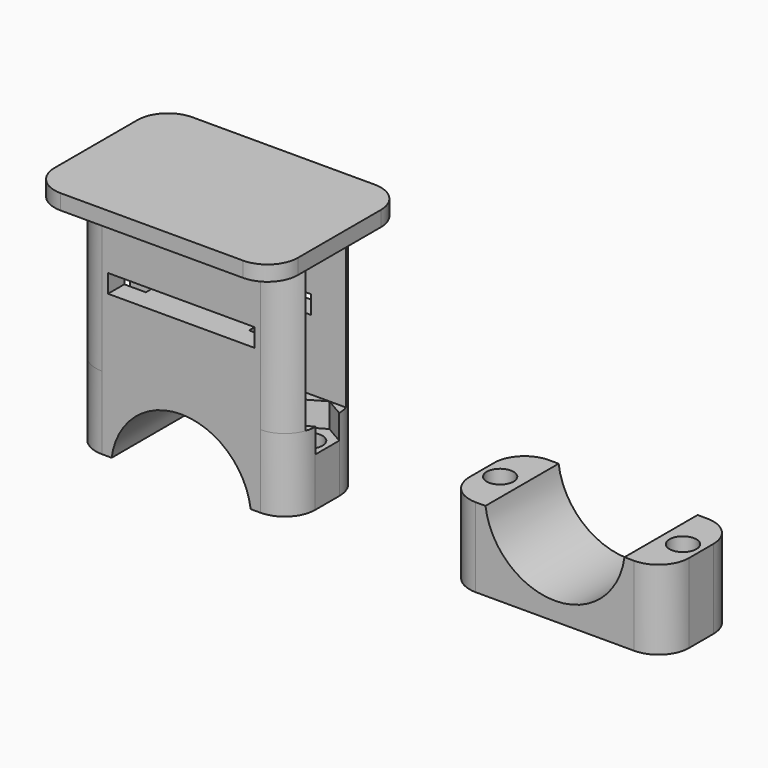
from build123d import *

# Parameters (mm, degrees)
F1_DEPTH  = 15
F2_R      = 5
F3_R      = 2.2
F4_DEPTH  = 25
F5_W      = 16.9340001484
F5_H      = 25
F6_DEPTH  = 15
F7_DEPTH  = 21
F8_DEPTH  = 6
F9_R      = 5
F10_R     = 2.2
F11_R     = 2.2
F12_DEPTH = 25
F13_R     = 2.2
F14_DEPTH = 4
F15_R     = 2.2
F16_DEPTH = 4
F17_DEPTH = 25
F18_R     = 5
F19_W     = 24
F19_H     = 3
F20_DEPTH = 25


with BuildPart() as f1:
    # F0 (on Front) → F1 (new body)
    with BuildSketch(Plane.XZ):
        with BuildLine():
            Line((0, 13), (0, 0))
            Line((0, 0), (36, 0))
            Line((36, 0), (36, 13))
            Line((36, 13), (29.401754251, 13))
            ThreePointArc((29.401754251, 13), (18, 3), (6.598245749, 13))
            Line((6.598245749, 13), (0, 13))
        make_face()
    extrude(amount=F1_DEPTH)

    # F2
    f2_edges = [f1.edges().sort_by_distance(p)[0] for p in [
        (0, -15, 6.5),
        (36, -15, 6.5),
        (36, 0, 6.5),
        (0, 0, 6.5),
    ]]
    fillet(f2_edges, radius=F2_R)

    # F3 (on face) → F4 (cut)
    with BuildSketch(Plane(origin=(0, 0, 0), x_dir=(1, 0, 0), z_dir=(0, 0, -1))):
        with Locations((3, 7.5)):
            Circle(F3_R)
        with Locations((33, 7.5)):
            Circle(F3_R)
    extrude(amount=-F4_DEPTH, mode=Mode.SUBTRACT)


with BuildPart() as f6:
    # F5 (on Front) → F6 (new body)
    with BuildSketch(Plane.XZ):
        with BuildLine():
            Line((-61.3396323552, 12), (-61.3396323552, 0))
            Line((-61.3396323552, 0), (-54.7413866062, 0))
            ThreePointArc((-54.7413866062, 0), (-43.3396323552, 10), (-31.9378781042, 0))
            Line((-31.9378781042, 0), (-25.3396323552, 0))
            Line((-25.3396323552, 0), (-25.3396323552, 12))
            Line((-25.3396323552, 12), (-34.872632281, 12))
            Line((-34.872632281, 12), (-51.8066324294, 12))
            Line((-51.8066324294, 12), (-61.3396323552, 12))
        make_face()
        with Locations((-43.3396323552, 24.5)):
            Rectangle(F5_W, F5_H)
    extrude(amount=F6_DEPTH)

    # F5 (on Front) → F7 (join)
    with BuildSketch(Plane.XZ):
        Polygon((-63.3066324294, 37), (-51.8066324294, 37), (-34.872632281, 37), (-23.372632281, 37), (-23.372632281, 39.5), (-63.3066324294, 39.5), align=None)
    extrude(amount=F7_DEPTH)

    # F5 (on Front) → F8 (join)
    with BuildSketch(Plane.XZ):
        Polygon((-63.3066324294, 37), (-51.8066324294, 37), (-34.872632281, 37), (-23.372632281, 37), (-23.372632281, 39.5), (-63.3066324294, 39.5), align=None)
    extrude(amount=-F8_DEPTH)

    # F9
    f9_edges = [f6.edges().sort_by_distance(p)[0] for p in [
        (-25.339632, -15, 6),
        (-25.339632, 0, 6),
        (-61.339632, -15, 6),
        (-61.339632, 0, 6),
    ]]
    fillet(f9_edges, radius=F9_R)

    # F10 (on face) + F11 (on face) → F12 (cut)
    with BuildSketch(Plane(origin=(0, 0, 0), x_dir=(1, 0, 0), z_dir=(0, 0, -1))):
        with Locations((-58.3396323552, 7.5)):
            Circle(F10_R)
    with BuildSketch(Plane(origin=(0, 0, 0), x_dir=(1, 0, 0), z_dir=(0, 0, -1))):
        with Locations((-28.3396323552, 7.5)):
            Circle(F11_R)
    extrude(amount=-F12_DEPTH, mode=Mode.SUBTRACT)

    # F13 (on face) → F14 (cut)
    with BuildSketch(Plane.XY.offset(12)):
        Polygon((-61.3396323552, -5.0751288694), (-61.3396323552, -9.9248711306), (-58.3396323552, -11.6569219382), (-54.7396323552, -9.5784609691), (-54.7396323552, -5.4215390309), (-58.3396323552, -3.3430780618), align=None)
        with Locations((-58.3396323552, -7.5)):
            Circle(F13_R, mode=Mode.SUBTRACT)
    extrude(amount=-F14_DEPTH, mode=Mode.SUBTRACT)

    # F15 (on face) → F16 (cut)
    with BuildSketch(Plane.XY.offset(12)):
        Polygon((-25.3396323552, -9.9248711306), (-25.3396323552, -5.0751288694), (-28.3396323552, -3.3430780618), (-31.9396323552, -5.4215390309), (-31.9396323552, -9.5784609691), (-28.3396323552, -11.6569219382), align=None)
        with Locations((-28.3396323552, -7.5)):
            Circle(F15_R, mode=Mode.SUBTRACT)
    extrude(amount=-F16_DEPTH, mode=Mode.SUBTRACT)

    # F13 (on face) + F15 (on face) → F17 (join, through all)
    with BuildSketch(Plane.XY.offset(12)):
        with BuildLine():
            Line((-51.8066324294, -11.6569219382), (-58.3396323552, -11.6569219382))
            Line((-58.3396323552, -11.6569219382), (-61.0571115222, -11.6569219382))
            ThreePointArc((-61.0571115222, -11.6569219382), (-59.2306002129, -14.079498112), (-56.3396323552, -15))
            Line((-56.3396323552, -15), (-51.8066324294, -15))
            Line((-51.8066324294, -15), (-51.8066324294, -11.6569219382))
        make_face()
        with BuildLine():
            Line((-61.0571115222, -3.3430780618), (-58.3396323552, -3.3430780618))
            Line((-58.3396323552, -3.3430780618), (-51.8066324294, -3.3430780618))
            Line((-51.8066324294, -3.3430780618), (-51.8066324294, 0))
            Line((-51.8066324294, 0), (-56.3396323552, 0))
            ThreePointArc((-56.3396323552, 0), (-59.2306002129, -0.920501888), (-61.0571115222, -3.3430780618))
        make_face()
    with BuildSketch(Plane.XY.offset(12)):
        with BuildLine():
            Line((-25.6221531882, -11.6569219382), (-28.3396323552, -11.6569219382))
            Line((-28.3396323552, -11.6569219382), (-34.872632281, -11.6569219382))
            Line((-34.872632281, -11.6569219382), (-34.872632281, -15))
            Line((-34.872632281, -15), (-30.3396323552, -15))
            ThreePointArc((-30.3396323552, -15), (-27.4486644974, -14.079498112), (-25.6221531882, -11.6569219382))
        make_face()
        with BuildLine():
            Line((-34.872632281, -3.3430780618), (-28.3396323552, -3.3430780618))
            Line((-28.3396323552, -3.3430780618), (-25.6221531882, -3.3430780618))
            ThreePointArc((-25.6221531882, -3.3430780618), (-27.4486644974, -0.920501888), (-30.3396323552, 0))
            Line((-30.3396323552, 0), (-34.872632281, 0))
            Line((-34.872632281, 0), (-34.872632281, -3.3430780618))
        make_face()
    extrude(amount=F17_DEPTH)

    # F18
    f18_edges = [f6.edges().sort_by_distance(p)[0] for p in [
        (-23.372632, -21, 38.25),
        (-23.372632, 6, 38.25),
        (-63.306632, 6, 38.25),
        (-63.306632, -21, 38.25),
    ]]
    fillet(f18_edges, radius=F18_R)

    # F19 (on face) → F20 (cut)
    with BuildSketch(Plane.XZ.offset(15)):
        with Locations((-43.3396323552, 25)):
            Rectangle(F19_W, F19_H)
    extrude(amount=-F20_DEPTH, mode=Mode.SUBTRACT)


solid = Compound([f1.part, f6.part])
